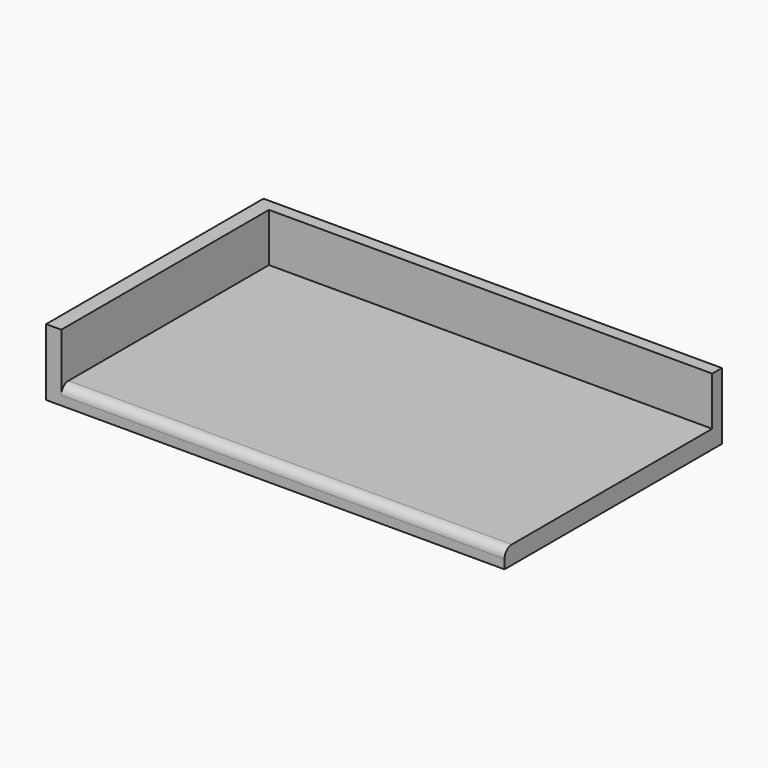
from build123d import *

# Parameters (mm, degrees)
F0_W          = 927.1
F0_H          = 38.1
F1_DEPTH      = 542.925
F3_W          = 31.75
F3_H          = 568.325
F4_DEPTH      = 120.65
F4_DEPTH_BACK = 19.05
F5_W          = 927.1
F5_H          = 25.4
F6_DEPTH      = 120.65
F6_DEPTH_BACK = 19.05
F7_R          = 19.05


with BuildPart() as f1:
    # F0 (on Front) → F1 (new body)
    with BuildSketch(Plane.XZ):
        Rectangle(F0_W, F0_H)
    extrude(amount=F1_DEPTH)

    # F3 (on Top) → F4 (join, two sides)
    with BuildSketch(Plane.XY) as f4_sk:
        with Locations((-479.425, -258.7625)):
            Rectangle(F3_W, F3_H)
    extrude(amount=F4_DEPTH)
    extrude(f4_sk.sketch, amount=-F4_DEPTH_BACK)

    # F5 (on Top) → F6 (join, two sides)
    with BuildSketch(Plane.XY) as f6_sk:
        with Locations((0, 12.7)):
            Rectangle(F5_W, F5_H)
    extrude(amount=F6_DEPTH)
    extrude(f6_sk.sketch, amount=-F6_DEPTH_BACK)

    # F7
    f7_edges = [f1.edges().sort_by_distance(p)[0] for p in [
        (0, -542.925, 19.05),
    ]]
    fillet(f7_edges, radius=F7_R)


solid = f1.part
